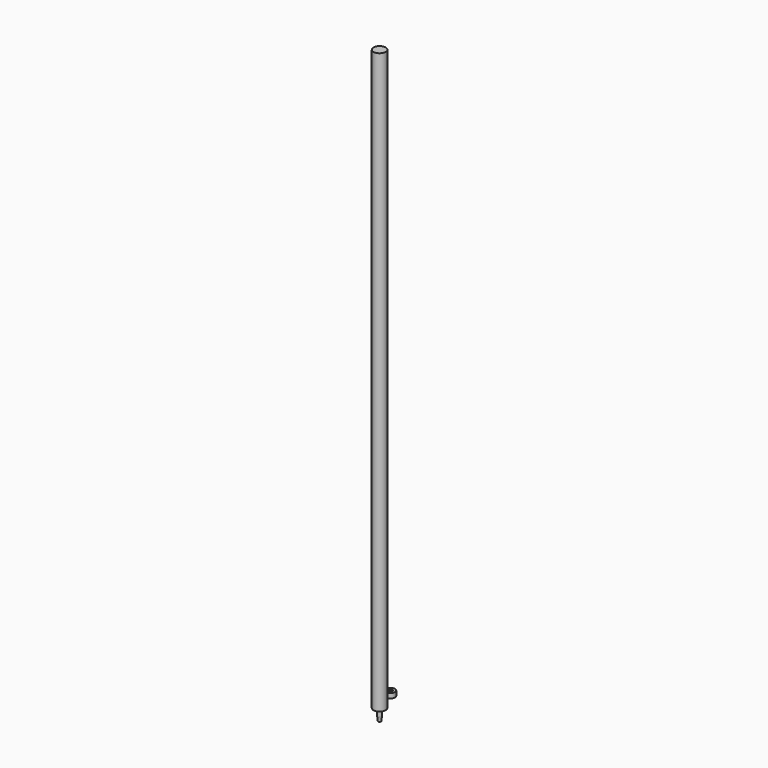
from build123d import *

# Parameters (mm, degrees)
F0_R     = 23
F0_R_2   = 10
F1_DEPTH = 25
F2_W     = 10
F2_H     = 36.745914


with BuildPart() as f1:
    # F0 (on Top) → F1 (new body)
    with BuildSketch(Plane.XY):
        Circle(F0_R)
        Circle(F0_R_2, mode=Mode.SUBTRACT)
    extrude(amount=F1_DEPTH)


with BuildPart() as f3:
    # F2 (on Right) → F3 (revolve)
    with BuildSketch(Plane.YZ):
        with Locations((-77.743558, -44.640656)):
            Rectangle(F2_W, F2_H)
        Polygon((-72.743558, -86.724252), (-72.743558, -63.013613), (-82.743558, -63.013613), (-80.243558, -86.724252), align=None)
        Polygon((-72.743558, 3013.732301), (-104.743558, 3013.732301), (-104.743558, -26.267699), (-82.743558, -26.267699), (-72.743558, -26.267699), align=None)
    revolve(axis=Axis((0, -72.743558, 1493.732301), (0, 0, -1)))


solid = Compound([f1.part, f3.part])
